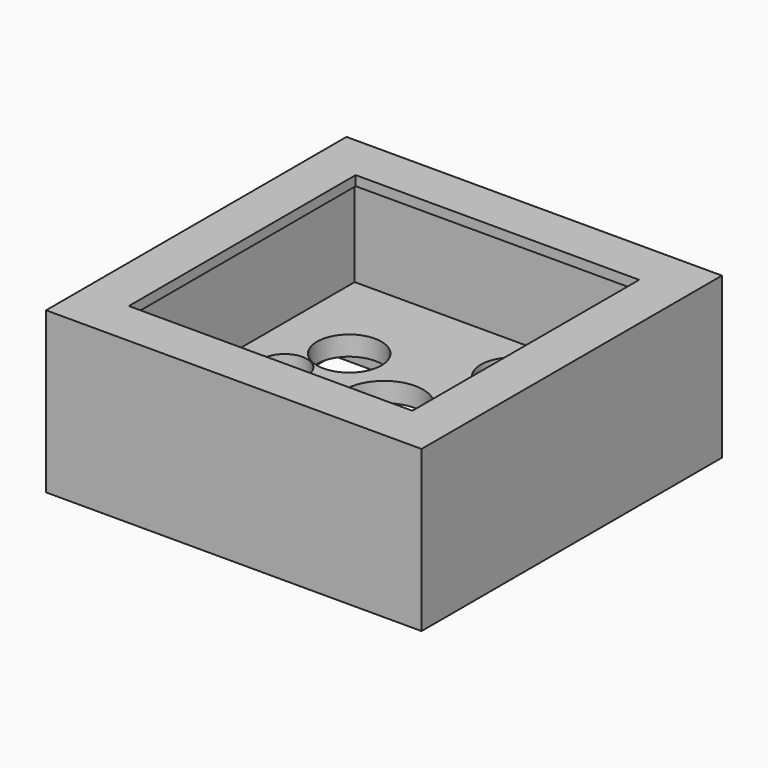
from build123d import *

# Parameters (mm, degrees)
CIRCLE_R         = 2
EXTRUDE002_DEPTH = 3.2
CIRCLE001_R      = 1.15
EXTRUDE003_DEPTH = 3.2
CIRCLE002_R      = 1
EXTRUDE004_DEPTH = 3.2
CIRCLE003_R      = 1.65
EXTRUDE005_DEPTH = 1
CIRCLE004_R      = 1.65
EXTRUDE006_DEPTH = 1
RECTANGLE_W      = 15.1
RECTANGLE_H      = 6
EXTRUDE007_DEPTH = 2.2
RECTANGLE002_W   = 14.5
RECTANGLE002_H   = 14.5
EXTRUDE_DEPTH    = 1.1
RECTANGLE001_W   = 15
RECTANGLE001_H   = 15
EXTRUDE001_DEPTH = 4.5
BOX_W            = 19.2
BOX_H            = 19.2
BOX_DEPTH        = 8.2


with BuildPart() as extrude002:
    # Circle → Extrude002 (new body)
    with BuildSketch(Plane.XY):
        Circle(CIRCLE_R)
    extrude(amount=-EXTRUDE002_DEPTH)


with BuildPart() as extrude003:
    # Circle001 → Extrude003 (new body)
    with BuildSketch(Plane(origin=(-5.08, 0, 0), x_dir=(1, 0, 0), z_dir=(0, 0, 1))):
        Circle(CIRCLE001_R)
    extrude(amount=-EXTRUDE003_DEPTH)


with BuildPart() as extrude004:
    # Circle002 → Extrude004 (new body)
    with BuildSketch(Plane(origin=(5.08, 0, 0), x_dir=(1, 0, 0), z_dir=(0, 0, 1))):
        Circle(CIRCLE002_R)
    extrude(amount=-EXTRUDE004_DEPTH)


with BuildPart() as extrude005:
    # Circle003 → Extrude005 (new body)
    with BuildSketch(Plane(origin=(2.54, 5.08, 0), x_dir=(1, 0, 0), z_dir=(0, 0, 1))):
        Circle(CIRCLE003_R)
    extrude(amount=-EXTRUDE005_DEPTH)


with BuildPart() as extrude006:
    # Circle004 → Extrude006 (new body)
    with BuildSketch(Plane(origin=(-3.81, 2.54, 0), x_dir=(1, 0, 0), z_dir=(0, 0, 1))):
        Circle(CIRCLE004_R)
    extrude(amount=-EXTRUDE006_DEPTH)


with BuildPart() as extrude007:
    # Rectangle → Extrude007 (new body)
    with BuildSketch(Plane(origin=(-8.03, 0.8, -1), x_dir=(1, 0, 0), z_dir=(0, 0, 1))):
        with Locations((7.55, 3)):
            Rectangle(RECTANGLE_W, RECTANGLE_H)
    extrude(amount=-EXTRUDE007_DEPTH)


with BuildPart() as extrude_body:
    # Rectangle002 → Extrude (new body)
    with BuildSketch(Plane(origin=(-7.25, -7.25, 4), x_dir=(1, 0, 0), z_dir=(0, 0, 1))):
        with Locations((7.25, 7.25)):
            Rectangle(RECTANGLE002_W, RECTANGLE002_H)
    extrude(amount=EXTRUDE_DEPTH)


with BuildPart() as fusion:
    # Rectangle001 → Extrude001 (new body)
    with BuildSketch(Plane(origin=(-7.5, -7.5, 0), x_dir=(1, 0, 0), z_dir=(0, 0, 1))):
        with Locations((7.5, 7.5)):
            Rectangle(RECTANGLE001_W, RECTANGLE001_H)
    extrude(amount=EXTRUDE001_DEPTH)

    # Fusion: union Extrude002, Extrude003, Extrude004, Extrude005, Extrude006, Extrude007, Extrude body
    add(extrude002.part)
    add(extrude003.part)
    add(extrude004.part)
    add(extrude005.part)
    add(extrude006.part)
    add(extrude007.part)
    add(extrude_body.part)


with BuildPart() as cut:
    # Box → Box (new body)
    with BuildSketch(Plane(origin=(-9.6, -9.6, -3.2), x_dir=(1, 0, 0), z_dir=(0, 0, 1))):
        with Locations((9.6, 9.6)):
            Rectangle(BOX_W, BOX_H)
    extrude(amount=BOX_DEPTH)

    # Cut: cut Fusion
    add(fusion.part, mode=Mode.SUBTRACT)


solid = cut.part
